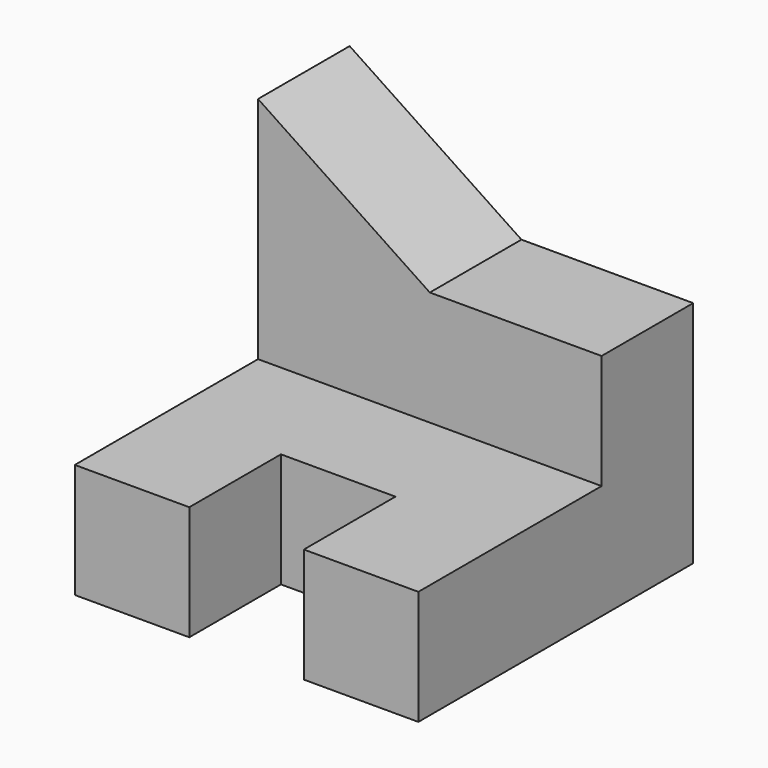
from build123d import *

# Parameters (mm, degrees)
F1_DEPTH = 15
F4_DEPTH = 10.001
F3_W     = 10
F3_H     = 10
F5_DEPTH = 10.001


with BuildPart() as f1:
    # F0 (on Right) → F1 (new body, symmetric)
    with BuildSketch(Plane.YZ):
        Polygon((0, 10), (0, 0), (30, 0), (30, 30), (20, 30), (20, 10), align=None)
    extrude(amount=F1_DEPTH, both=True)

    # F2 (on face) → F4 (cut, through all)
    with BuildSketch(Plane.XZ.offset(-20)):
        Polygon((15, 30), (-15, 30), (0, 20), (15, 20), align=None)
    extrude(amount=-F4_DEPTH, mode=Mode.SUBTRACT)

    # F3 (on face) → F5 (cut, through all)
    with BuildSketch(Plane.XY.offset(10)):
        with Locations((0, 5)):
            Rectangle(F3_W, F3_H)
    extrude(amount=-F5_DEPTH, mode=Mode.SUBTRACT)


solid = f1.part
